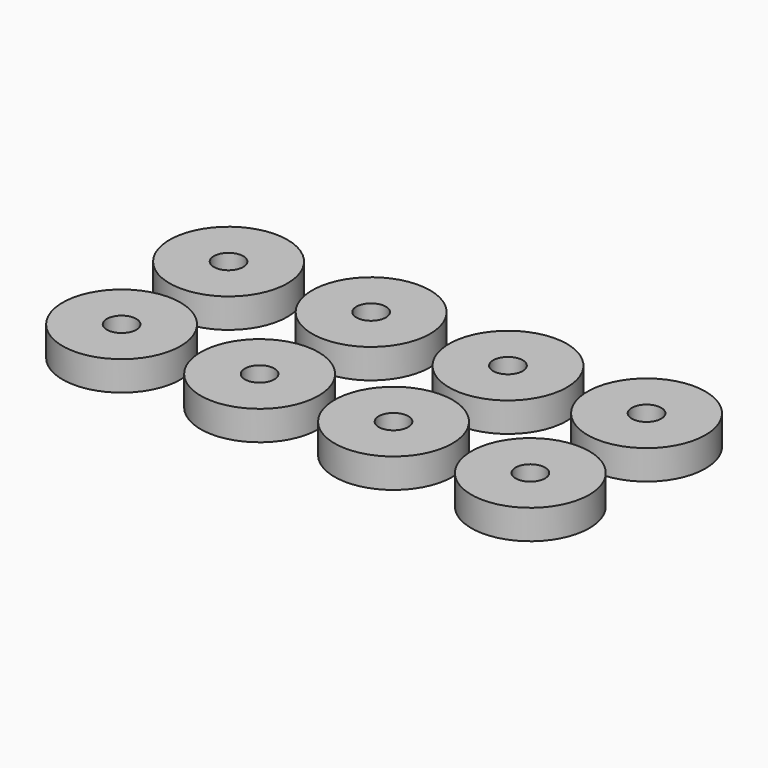
from build123d import *

# Parameters (mm, degrees)
F0_R     = 6.35
F0_R_2   = 1.5875
F1_DEPTH = 3.175


with BuildPart() as f1:
    # F0 (on Top) → F1 (new body)
    with BuildSketch(Plane.XY):
        with Locations((-24.601303, 9.60713)):
            Circle(F0_R)
        with Locations((-24.601303, 9.60713)):
            Circle(F0_R_2, mode=Mode.SUBTRACT)
        with Locations((-9.49377, 9.914634)):
            Circle(F0_R)
        with Locations((-9.49377, 9.914634)):
            Circle(F0_R_2, mode=Mode.SUBTRACT)
        with Locations((5.583865, 9.488119)):
            Circle(F0_R)
        with Locations((5.583865, 9.488119)):
            Circle(F0_R_2, mode=Mode.SUBTRACT)
        with Locations((20.104176, 9.992605)):
            Circle(F0_R)
        with Locations((20.104176, 9.992605)):
            Circle(F0_R_2, mode=Mode.SUBTRACT)
        with Locations((-24.487723, -4.934167)):
            Circle(F0_R)
        with Locations((-24.487723, -4.934167)):
            Circle(F0_R_2, mode=Mode.SUBTRACT)
        with Locations((4.440631, -4.489426)):
            Circle(F0_R)
        with Locations((4.440631, -4.489426)):
            Circle(F0_R_2, mode=Mode.SUBTRACT)
        with Locations((-9.775711, -4.746053)):
            Circle(F0_R)
        with Locations((-9.775711, -4.746053)):
            Circle(F0_R_2, mode=Mode.SUBTRACT)
        with Locations((19.263954, -4.599343)):
            Circle(F0_R)
        with Locations((19.263954, -4.599343)):
            Circle(F0_R_2, mode=Mode.SUBTRACT)
    extrude(amount=F1_DEPTH)


solid = f1.part
